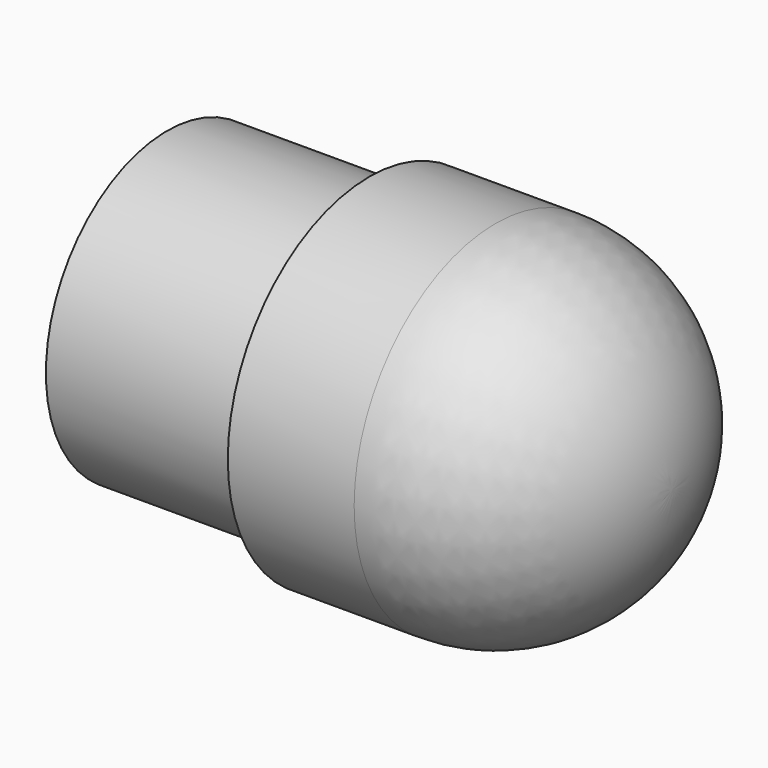
from build123d import *


with BuildPart() as f1:
    # F0 (on Top) → F1 (revolve)
    with BuildSketch(Plane.XY):
        with BuildLine():
            Line((0, 15), (0, 0))
            Line((0, 0), (50, 0))
            ThreePointArc((50, 0), (44.874369, 12.374369), (32.5, 17.5))
            Line((32.5, 17.5), (20, 17.5))
            Line((20, 17.5), (20, 15))
            Line((20, 15), (0, 15))
        make_face()
    revolve(axis=Axis((25, 0, 0), (-1, 0, 0)))


solid = f1.part
